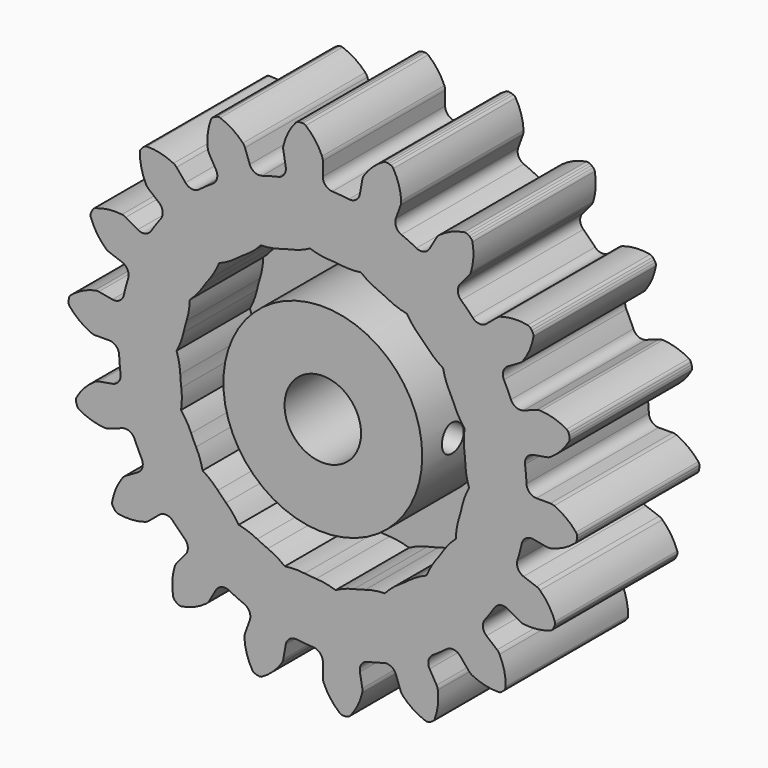
from build123d import *

# Parameters (mm, degrees)
F1_DEPTH = 12.7
F2_R     = 3.175
F3_DEPTH = 12.701
F4_T     = -5.08
F6_R     = 1.1303
F7_DEPTH = 8.255


with BuildPart() as f1:
    # F0 (on Front) → F1 (new body)
    with BuildSketch(Plane.XZ):
        with BuildLine():
            ThreePointArc((-3.0797196834, 17.4659582497), (-3.2056409493, 16.8649768064), (-3.7116884252, 16.517196973))
            ThreePointArc((-3.7116884252, 16.517196973), (-4.3815734964, 16.3522549058), (-5.0441820193, 16.1601563905))
            ThreePointArc((-5.0441820193, 16.1601563905), (-5.6563219057, 16.2083188233), (-6.0658636426, 16.6658233874))
            Line((-6.0658636426, 16.6658233874), (-6.4604760705, 17.7500121225))
            ThreePointArc((-6.4604760705, 17.7500121225), (-6.5329570164, 17.9000057853), (-6.6340767303, 18.0323930577))
            ThreePointArc((-6.6340767303, 18.0323930577), (-7.5028479606, 18.761320452), (-8.5193283576, 19.2641784831))
            ThreePointArc((-8.5193283576, 19.2641784831), (-8.6481237443, 19.2859924477), (-8.7767174091, 19.2630192006))
            Line((-8.7767174091, 19.2630192006), (-8.9526360841, 19.1989900392))
            Line((-8.9526360841, 19.1989900392), (-9.1147636121, 19.1053856674))
            ThreePointArc((-9.1147636121, 19.1053856674), (-9.2150205547, 19.0216441236), (-9.2810981671, 18.9089593872))
            ThreePointArc((-9.2810981671, 18.9089593872), (-9.5492675714, 17.8070593157), (-9.549312174, 16.672996445))
            ThreePointArc((-9.549312174, 16.672996445), (-9.5128961389, 16.5104373517), (-9.444584181, 16.3584996578))
            Line((-9.444584181, 16.3584996578), (-8.8676994044, 15.3593059147))
            ThreePointArc((-8.8676994044, 15.3593059147), (-8.7804789295, 14.7515004778), (-9.1370602999, 14.2516159044))
            ThreePointArc((-9.1370602999, 14.2516159044), (-9.7101328486, 13.867506873), (-10.2670796263, 13.4603678537))
            ThreePointArc((-10.2670796263, 13.4603678537), (-10.8587754826, 13.2962615647), (-11.4000946072, 13.586103704))
            Line((-11.4000946072, 13.586103704), (-12.1417233804, 14.4699424588))
            ThreePointArc((-12.1417233804, 14.4699424588), (-12.2611340445, 14.5861004534), (-12.4014346073, 14.6759188173))
            ThreePointArc((-12.4014346073, 14.6759188173), (-13.4671203735, 15.0637492501), (-14.5942870775, 15.1886244602))
            ThreePointArc((-14.5942870775, 15.1886244602), (-14.7227759673, 15.1650722651), (-14.8357571719, 15.0995028507))
            Line((-14.8357571719, 15.0995028507), (-14.9791673898, 14.9791673898))
            Line((-14.9791673898, 14.9791673898), (-15.0995028507, 14.8357571719))
            ThreePointArc((-15.0995028507, 14.8357571719), (-15.1650722651, 14.7227759673), (-15.1886244602, 14.5942870775))
            ThreePointArc((-15.1886244602, 14.5942870775), (-15.0637492501, 13.4671203735), (-14.6759188173, 12.4014346073))
            ThreePointArc((-14.6759188173, 12.4014346073), (-14.5861004534, 12.2611340445), (-14.4699424588, 12.1417233804))
            Line((-14.4699424588, 12.1417233804), (-13.586103704, 11.4000946072))
            ThreePointArc((-13.586103704, 11.4000946072), (-13.2962615647, 10.8587754826), (-13.4603678537, 10.2670796263))
            ThreePointArc((-13.4603678537, 10.2670796263), (-13.867506873, 9.7101328486), (-14.2516159044, 9.1370602999))
            ThreePointArc((-14.2516159044, 9.1370602999), (-14.7515004778, 8.7804789295), (-15.3593059147, 8.8676994044))
            Line((-15.3593059147, 8.8676994044), (-16.3584996578, 9.444584181))
            ThreePointArc((-16.3584996578, 9.444584181), (-16.5104373517, 9.5128961389), (-16.672996445, 9.549312174))
            ThreePointArc((-16.672996445, 9.549312174), (-17.8070593157, 9.5492675714), (-18.9089593872, 9.2810981671))
            ThreePointArc((-18.9089593872, 9.2810981671), (-19.0216441236, 9.2150205547), (-19.1053856674, 9.1147636121))
            Line((-19.1053856674, 9.1147636121), (-19.1989900392, 8.9526360841))
            Line((-19.1989900392, 8.9526360841), (-19.2630192006, 8.7767174091))
            ThreePointArc((-19.2630192006, 8.7767174091), (-19.2859924477, 8.6481237443), (-19.2641784831, 8.5193283576))
            ThreePointArc((-19.2641784831, 8.5193283576), (-18.761320452, 7.5028479606), (-18.0323930577, 6.6340767303))
            ThreePointArc((-18.0323930577, 6.6340767303), (-17.9000057853, 6.5329570164), (-17.7500121225, 6.4604760705))
            Line((-17.7500121225, 6.4604760705), (-16.6658233874, 6.0658636426))
            ThreePointArc((-16.6658233874, 6.0658636426), (-16.2083188233, 5.6563219057), (-16.1601563905, 5.0441820193))
            ThreePointArc((-16.1601563905, 5.0441820193), (-16.3522549058, 4.3815734964), (-16.517196973, 3.7116884252))
            ThreePointArc((-16.517196973, 3.7116884252), (-16.8649768064, 3.2056409493), (-17.4659582497, 3.0797196834))
            Line((-17.4659582497, 3.0797196834), (-18.6021994508, 3.2800696637))
            ThreePointArc((-18.6021994508, 3.2800696637), (-18.7683382462, 3.2922961546), (-18.9335488441, 3.2709175497))
            ThreePointArc((-18.9335488441, 3.2709175497), (-19.9992041003, 2.8830032914), (-20.9429321282, 2.2541344607))
            ThreePointArc((-20.9429321282, 2.2541344607), (-21.026221269, 2.1535013662), (-21.0706226859, 2.0306493622))
            Line((-21.0706226859, 2.0306493622), (-21.1031311431, 1.8462847399))
            Line((-21.1031311431, 1.8462847399), (-21.1031311431, 1.6590759961))
            ThreePointArc((-21.1031311431, 1.6590759961), (-21.0807373101, 1.5303801651), (-21.016188272, 1.4168129058))
            ThreePointArc((-21.016188272, 1.4168129058), (-20.1959995198, 0.6336213535), (-19.2138945656, 0.0665512911))
            ThreePointArc((-19.2138945656, 0.0665512911), (-19.0549062436, 0.016808956), (-18.889168362, 0))
            Line((-18.889168362, 0), (-17.7353988089, 0))
            ThreePointArc((-17.7353988089, 0), (-17.1654136224, -0.2283675714), (-16.9107915681, -0.7871183834))
            ThreePointArc((-16.9107915681, -0.7871183834), (-16.8646796635, -1.4754682845), (-16.7905603187, -2.1613678522))
            ThreePointArc((-16.7905603187, -2.1613678522), (-16.9442880317, -2.7558446396), (-17.4659582497, -3.0797196834))
            Line((-17.4659582497, -3.0797196834), (-18.6021994508, -3.2800696637))
            ThreePointArc((-18.6021994508, -3.2800696637), (-18.7625005571, -3.325403335), (-18.9104358233, -3.4019980047))
            ThreePointArc((-18.9104358233, -3.4019980047), (-19.7791497136, -4.1309937342), (-20.4508781698, -5.0447111292))
            ThreePointArc((-20.4508781698, -5.0447111292), (-20.4947258154, -5.1677618694), (-20.4944316392, -5.2983911699))
            Line((-20.4944316392, -5.2983911699), (-20.461923182, -5.4827557922))
            Line((-20.461923182, -5.4827557922), (-20.3978940206, -5.6586744673))
            ThreePointArc((-20.3978940206, -5.6586744673), (-20.3328341345, -5.7719498481), (-20.2333355894, -5.8565910923))
            ThreePointArc((-20.2333355894, -5.8565910923), (-19.1947429843, -6.3120293401), (-18.0779168219, -6.509001216))
            ThreePointArc((-18.0779168219, -6.509001216), (-17.9115037884, -6.5013665126), (-17.7500121225, -6.4604760705))
            Line((-17.7500121225, -6.4604760705), (-16.6658233874, -6.0658636426))
            ThreePointArc((-16.6658233874, -6.0658636426), (-16.0521062042, -6.0855125491), (-15.6217357059, -6.5234806925))
            ThreePointArc((-15.6217357059, -6.5234806925), (-15.3429751575, -7.1545468148), (-15.0387342878, -7.7737312682))
            ThreePointArc((-15.0387342878, -7.7737312682), (-14.9798680492, -8.384934693), (-15.3593059147, -8.8676994044))
            Line((-15.3593059147, -8.8676994044), (-16.3584996578, -9.444584181))
            ThreePointArc((-16.3584996578, -9.444584181), (-16.4936283957, -9.5420101047), (-16.6064451538, -9.6645823915))
            ThreePointArc((-16.6064451538, -9.6645823915), (-17.1734379622, -10.6467319484), (-17.4921464813, -11.7350901049))
            ThreePointArc((-17.4921464813, -11.7350901049), (-17.4912639585, -11.8657167555), (-17.4463096712, -11.988367531))
            Line((-17.4463096712, -11.988367531), (-17.3527052993, -12.1504950589))
            Line((-17.3527052993, -12.1504950589), (-17.2323698384, -12.2939052768))
            ThreePointArc((-17.2323698384, -12.2939052768), (-17.1324910815, -12.3780975247), (-17.0100440224, -12.4236037706))
            ThreePointArc((-17.0100440224, -12.4236037706), (-15.8783171607, -12.4963561397), (-14.761475508, -12.2994721138))
            ThreePointArc((-14.761475508, -12.2994721138), (-14.6077096307, -12.2353812298), (-14.4699424588, -12.1417233804))
            Line((-14.4699424588, -12.1417233804), (-13.586103704, -11.4000946072))
            ThreePointArc((-13.586103704, -11.4000946072), (-13.0026778739, -11.2086549007), (-12.4484679653, -11.4730149537))
            ThreePointArc((-12.4484679653, -11.4730149537), (-11.9706814094, -11.9706814094), (-11.4730149537, -12.4484679653))
            ThreePointArc((-11.4730149537, -12.4484679653), (-11.2086549007, -13.0026778739), (-11.4000946072, -13.586103704))
            Line((-11.4000946072, -13.586103704), (-12.1417233804, -14.4699424588))
            ThreePointArc((-12.1417233804, -14.4699424588), (-12.2353812298, -14.6077096307), (-12.2994721138, -14.761475508))
            ThreePointArc((-12.2994721138, -14.761475508), (-12.4963561397, -15.8783171607), (-12.4236037706, -17.0100440224))
            ThreePointArc((-12.4236037706, -17.0100440224), (-12.3780975247, -17.1324910815), (-12.2939052768, -17.2323698384))
            Line((-12.2939052768, -17.2323698384), (-12.1504950589, -17.3527052993))
            Line((-12.1504950589, -17.3527052993), (-11.988367531, -17.4463096712))
            ThreePointArc((-11.988367531, -17.4463096712), (-11.8657167555, -17.4912639585), (-11.7350901049, -17.4921464813))
            ThreePointArc((-11.7350901049, -17.4921464813), (-10.6467319484, -17.1734379622), (-9.6645823915, -16.6064451538))
            ThreePointArc((-9.6645823915, -16.6064451538), (-9.5420101047, -16.4936283957), (-9.444584181, -16.3584996578))
            Line((-9.444584181, -16.3584996578), (-8.8676994044, -15.3593059147))
            ThreePointArc((-8.8676994044, -15.3593059147), (-8.384934693, -14.9798680492), (-7.7737312682, -15.0387342878))
            ThreePointArc((-7.7737312682, -15.0387342878), (-7.1545468148, -15.3429751575), (-6.5234806925, -15.6217357059))
            ThreePointArc((-6.5234806925, -15.6217357059), (-6.0855125491, -16.0521062042), (-6.0658636426, -16.6658233874))
            Line((-6.0658636426, -16.6658233874), (-6.4604760705, -17.7500121225))
            ThreePointArc((-6.4604760705, -17.7500121225), (-6.5013665126, -17.9115037884), (-6.509001216, -18.0779168219))
            ThreePointArc((-6.509001216, -18.0779168219), (-6.3120293401, -19.1947429843), (-5.8565910923, -20.2333355894))
            ThreePointArc((-5.8565910923, -20.2333355894), (-5.7719498481, -20.3328341345), (-5.6586744673, -20.3978940206))
            Line((-5.6586744673, -20.3978940206), (-5.4827557922, -20.461923182))
            Line((-5.4827557922, -20.461923182), (-5.2983911699, -20.4944316392))
            ThreePointArc((-5.2983911699, -20.4944316392), (-5.1677618694, -20.4947258154), (-5.0447111292, -20.4508781698))
            ThreePointArc((-5.0447111292, -20.4508781698), (-4.1309937342, -19.7791497136), (-3.4019980047, -18.9104358233))
            ThreePointArc((-3.4019980047, -18.9104358233), (-3.325403335, -18.7625005571), (-3.2800696637, -18.6021994508))
            Line((-3.2800696637, -18.6021994508), (-3.0797196834, -17.4659582497))
            ThreePointArc((-3.0797196834, -17.4659582497), (-2.7558446396, -16.9442880317), (-2.1613678522, -16.7905603187))
            ThreePointArc((-2.1613678522, -16.7905603187), (-1.4754682845, -16.8646796635), (-0.7871183834, -16.9107915681))
            ThreePointArc((-0.7871183834, -16.9107915681), (-0.2283675714, -17.1654136224), (0, -17.7353988089))
            Line((0, -17.7353988089), (0, -18.889168362))
            ThreePointArc((0, -18.889168362), (0.016808956, -19.0549062436), (0.0665512911, -19.2138945656))
            ThreePointArc((0.0665512911, -19.2138945656), (0.6336213535, -20.1959995198), (1.4168129058, -21.016188272))
            ThreePointArc((1.4168129058, -21.016188272), (1.5303801651, -21.0807373101), (1.6590759961, -21.1031311431))
            Line((1.6590759961, -21.1031311431), (1.8462847399, -21.1031311431))
            Line((1.8462847399, -21.1031311431), (2.0306493622, -21.0706226859))
            ThreePointArc((2.0306493622, -21.0706226859), (2.1535013662, -21.026221269), (2.2541344607, -20.9429321282))
            ThreePointArc((2.2541344607, -20.9429321282), (2.8830032914, -19.9992041003), (3.2709175497, -18.9335488441))
            ThreePointArc((3.2709175497, -18.9335488441), (3.2922961546, -18.7683382462), (3.2800696637, -18.6021994508))
            Line((3.2800696637, -18.6021994508), (3.0797196834, -17.4659582497))
            ThreePointArc((3.0797196834, -17.4659582497), (3.2056409493, -16.8649768064), (3.7116884252, -16.517196973))
            ThreePointArc((3.7116884252, -16.517196973), (4.3815734964, -16.3522549058), (5.0441820193, -16.1601563905))
            ThreePointArc((5.0441820193, -16.1601563905), (5.6563219057, -16.2083188233), (6.0658636426, -16.6658233874))
            Line((6.0658636426, -16.6658233874), (6.4604760705, -17.7500121225))
            ThreePointArc((6.4604760705, -17.7500121225), (6.5329570164, -17.9000057853), (6.6340767303, -18.0323930577))
            ThreePointArc((6.6340767303, -18.0323930577), (7.5028479606, -18.761320452), (8.5193283576, -19.2641784831))
            ThreePointArc((8.5193283576, -19.2641784831), (8.6481237443, -19.2859924477), (8.7767174091, -19.2630192006))
            Line((8.7767174091, -19.2630192006), (8.9526360841, -19.1989900392))
            Line((8.9526360841, -19.1989900392), (9.1147636121, -19.1053856674))
            ThreePointArc((9.1147636121, -19.1053856674), (9.2150205547, -19.0216441236), (9.2810981671, -18.9089593872))
            ThreePointArc((9.2810981671, -18.9089593872), (9.5492675714, -17.8070593157), (9.549312174, -16.672996445))
            ThreePointArc((9.549312174, -16.672996445), (9.5128961389, -16.5104373517), (9.444584181, -16.3584996578))
            Line((9.444584181, -16.3584996578), (8.8676994044, -15.3593059147))
            ThreePointArc((8.8676994044, -15.3593059147), (8.7804789295, -14.7515004778), (9.1370602999, -14.2516159044))
            ThreePointArc((9.1370602999, -14.2516159044), (9.7101328486, -13.867506873), (10.2670796263, -13.4603678537))
            ThreePointArc((10.2670796263, -13.4603678537), (10.8587754826, -13.2962615647), (11.4000946072, -13.586103704))
            Line((11.4000946072, -13.586103704), (12.1417233804, -14.4699424588))
            ThreePointArc((12.1417233804, -14.4699424588), (12.2611340445, -14.5861004534), (12.4014346073, -14.6759188173))
            ThreePointArc((12.4014346073, -14.6759188173), (13.4671203735, -15.0637492501), (14.5942870775, -15.1886244602))
            ThreePointArc((14.5942870775, -15.1886244602), (14.7227759673, -15.1650722651), (14.8357571719, -15.0995028507))
            Line((14.8357571719, -15.0995028507), (14.9791673898, -14.9791673898))
            Line((14.9791673898, -14.9791673898), (15.0995028507, -14.8357571719))
            ThreePointArc((15.0995028507, -14.8357571719), (15.1650722651, -14.7227759673), (15.1886244602, -14.5942870775))
            ThreePointArc((15.1886244602, -14.5942870775), (15.0637492501, -13.4671203735), (14.6759188173, -12.4014346073))
            ThreePointArc((14.6759188173, -12.4014346073), (14.5861004534, -12.2611340445), (14.4699424588, -12.1417233804))
            Line((14.4699424588, -12.1417233804), (13.586103704, -11.4000946072))
            ThreePointArc((13.586103704, -11.4000946072), (13.2962615647, -10.8587754826), (13.4603678537, -10.2670796263))
            ThreePointArc((13.4603678537, -10.2670796263), (13.867506873, -9.7101328486), (14.2516159044, -9.1370602999))
            ThreePointArc((14.2516159044, -9.1370602999), (14.7515004778, -8.7804789295), (15.3593059147, -8.8676994044))
            Line((15.3593059147, -8.8676994044), (16.3584996578, -9.444584181))
            ThreePointArc((16.3584996578, -9.444584181), (16.5104373517, -9.5128961389), (16.672996445, -9.549312174))
            ThreePointArc((16.672996445, -9.549312174), (17.8070593157, -9.5492675714), (18.9089593872, -9.2810981671))
            ThreePointArc((18.9089593872, -9.2810981671), (19.0216441236, -9.2150205547), (19.1053856674, -9.1147636121))
            Line((19.1053856674, -9.1147636121), (19.1989900392, -8.9526360841))
            Line((19.1989900392, -8.9526360841), (19.2630192006, -8.7767174091))
            ThreePointArc((19.2630192006, -8.7767174091), (19.2859924477, -8.6481237443), (19.2641784831, -8.5193283576))
            ThreePointArc((19.2641784831, -8.5193283576), (18.761320452, -7.5028479606), (18.0323930577, -6.6340767303))
            ThreePointArc((18.0323930577, -6.6340767303), (17.9000057853, -6.5329570164), (17.7500121225, -6.4604760705))
            Line((17.7500121225, -6.4604760705), (16.6658233874, -6.0658636426))
            ThreePointArc((16.6658233874, -6.0658636426), (16.2083188233, -5.6563219057), (16.1601563905, -5.0441820193))
            ThreePointArc((16.1601563905, -5.0441820193), (16.3522549058, -4.3815734964), (16.517196973, -3.7116884252))
            ThreePointArc((16.517196973, -3.7116884252), (16.8649768064, -3.2056409493), (17.4659582497, -3.0797196834))
            Line((17.4659582497, -3.0797196834), (18.6021994508, -3.2800696637))
            ThreePointArc((18.6021994508, -3.2800696637), (18.7683382462, -3.2922961546), (18.9335488441, -3.2709175497))
            ThreePointArc((18.9335488441, -3.2709175497), (19.9992041003, -2.8830032914), (20.9429321282, -2.2541344607))
            ThreePointArc((20.9429321282, -2.2541344607), (21.026221269, -2.1535013662), (21.0706226859, -2.0306493622))
            Line((21.0706226859, -2.0306493622), (21.1031311431, -1.8462847399))
            Line((21.1031311431, -1.8462847399), (21.1031311431, -1.6590759961))
            ThreePointArc((21.1031311431, -1.6590759961), (21.0807373101, -1.5303801651), (21.016188272, -1.4168129058))
            ThreePointArc((21.016188272, -1.4168129058), (20.1959995198, -0.6336213535), (19.2138945656, -0.0665512911))
            ThreePointArc((19.2138945656, -0.0665512911), (19.0549062436, -0.016808956), (18.889168362, 0))
            Line((18.889168362, 0), (17.7353988089, 0))
            ThreePointArc((17.7353988089, 0), (17.1654136224, 0.2283675714), (16.9107915681, 0.7871183834))
            ThreePointArc((16.9107915681, 0.7871183834), (16.8646796635, 1.4754682845), (16.7905603187, 2.1613678522))
            ThreePointArc((16.7905603187, 2.1613678522), (16.9442880317, 2.7558446396), (17.4659582497, 3.0797196834))
            Line((17.4659582497, 3.0797196834), (18.6021994508, 3.2800696637))
            ThreePointArc((18.6021994508, 3.2800696637), (18.7625005571, 3.325403335), (18.9104358233, 3.4019980047))
            ThreePointArc((18.9104358233, 3.4019980047), (19.7791497136, 4.1309937342), (20.4508781698, 5.0447111292))
            ThreePointArc((20.4508781698, 5.0447111292), (20.4947258154, 5.1677618694), (20.4944316392, 5.2983911699))
            Line((20.4944316392, 5.2983911699), (20.461923182, 5.4827557922))
            Line((20.461923182, 5.4827557922), (20.3978940206, 5.6586744673))
            ThreePointArc((20.3978940206, 5.6586744673), (20.3328341345, 5.7719498481), (20.2333355894, 5.8565910923))
            ThreePointArc((20.2333355894, 5.8565910923), (19.1947429843, 6.3120293401), (18.0779168219, 6.509001216))
            ThreePointArc((18.0779168219, 6.509001216), (17.9115037884, 6.5013665126), (17.7500121225, 6.4604760705))
            Line((17.7500121225, 6.4604760705), (16.6658233874, 6.0658636426))
            ThreePointArc((16.6658233874, 6.0658636426), (16.0521062042, 6.0855125491), (15.6217357059, 6.5234806925))
            ThreePointArc((15.6217357059, 6.5234806925), (15.3429751575, 7.1545468148), (15.0387342878, 7.7737312682))
            ThreePointArc((15.0387342878, 7.7737312682), (14.9798680492, 8.384934693), (15.3593059147, 8.8676994044))
            Line((15.3593059147, 8.8676994044), (16.3584996578, 9.444584181))
            ThreePointArc((16.3584996578, 9.444584181), (16.4936283957, 9.5420101047), (16.6064451538, 9.6645823915))
            ThreePointArc((16.6064451538, 9.6645823915), (17.1734379622, 10.6467319484), (17.4921464813, 11.7350901049))
            ThreePointArc((17.4921464813, 11.7350901049), (17.4912639585, 11.8657167555), (17.4463096712, 11.988367531))
            Line((17.4463096712, 11.988367531), (17.3527052993, 12.1504950589))
            Line((17.3527052993, 12.1504950589), (17.2323698384, 12.2939052768))
            ThreePointArc((17.2323698384, 12.2939052768), (17.1324910815, 12.3780975247), (17.0100440224, 12.4236037706))
            ThreePointArc((17.0100440224, 12.4236037706), (15.8783171607, 12.4963561397), (14.761475508, 12.2994721138))
            ThreePointArc((14.761475508, 12.2994721138), (14.6077096307, 12.2353812298), (14.4699424588, 12.1417233804))
            Line((14.4699424588, 12.1417233804), (13.586103704, 11.4000946072))
            ThreePointArc((13.586103704, 11.4000946072), (13.0026778739, 11.2086549007), (12.4484679653, 11.4730149537))
            ThreePointArc((12.4484679653, 11.4730149537), (11.9706814094, 11.9706814094), (11.4730149537, 12.4484679653))
            ThreePointArc((11.4730149537, 12.4484679653), (11.2086549007, 13.0026778739), (11.4000946072, 13.586103704))
            Line((11.4000946072, 13.586103704), (12.1417233804, 14.4699424588))
            ThreePointArc((12.1417233804, 14.4699424588), (12.2353812298, 14.6077096307), (12.2994721138, 14.761475508))
            ThreePointArc((12.2994721138, 14.761475508), (12.4963561397, 15.8783171607), (12.4236037706, 17.0100440224))
            ThreePointArc((12.4236037706, 17.0100440224), (12.3780975247, 17.1324910815), (12.2939052768, 17.2323698384))
            Line((12.2939052768, 17.2323698384), (12.1504950589, 17.3527052993))
            Line((12.1504950589, 17.3527052993), (11.988367531, 17.4463096712))
            ThreePointArc((11.988367531, 17.4463096712), (11.8657167555, 17.4912639585), (11.7350901049, 17.4921464813))
            ThreePointArc((11.7350901049, 17.4921464813), (10.6467319484, 17.1734379622), (9.6645823915, 16.6064451538))
            ThreePointArc((9.6645823915, 16.6064451538), (9.5420101047, 16.4936283957), (9.444584181, 16.3584996578))
            Line((9.444584181, 16.3584996578), (8.8676994044, 15.3593059147))
            ThreePointArc((8.8676994044, 15.3593059147), (8.384934693, 14.9798680492), (7.7737312682, 15.0387342878))
            ThreePointArc((7.7737312682, 15.0387342878), (7.1545468148, 15.3429751575), (6.5234806925, 15.6217357059))
            ThreePointArc((6.5234806925, 15.6217357059), (6.0855125491, 16.0521062042), (6.0658636426, 16.6658233874))
            Line((6.0658636426, 16.6658233874), (6.4604760705, 17.7500121225))
            ThreePointArc((6.4604760705, 17.7500121225), (6.5013665126, 17.9115037884), (6.509001216, 18.0779168219))
            ThreePointArc((6.509001216, 18.0779168219), (6.3120293401, 19.1947429843), (5.8565910923, 20.2333355894))
            ThreePointArc((5.8565910923, 20.2333355894), (5.7719498481, 20.3328341345), (5.6586744673, 20.3978940206))
            Line((5.6586744673, 20.3978940206), (5.4827557922, 20.461923182))
            Line((5.4827557922, 20.461923182), (5.2983911699, 20.4944316392))
            ThreePointArc((5.2983911699, 20.4944316392), (5.1677618694, 20.4947258154), (5.0447111292, 20.4508781698))
            ThreePointArc((5.0447111292, 20.4508781698), (4.1309937342, 19.7791497136), (3.4019980047, 18.9104358233))
            ThreePointArc((3.4019980047, 18.9104358233), (3.325403335, 18.7625005571), (3.2800696637, 18.6021994508))
            Line((3.2800696637, 18.6021994508), (3.0797196834, 17.4659582497))
            ThreePointArc((3.0797196834, 17.4659582497), (2.7558446396, 16.9442880317), (2.1613678522, 16.7905603187))
            ThreePointArc((2.1613678522, 16.7905603187), (1.4754682845, 16.8646796635), (0.7871183834, 16.9107915681))
            ThreePointArc((0.7871183834, 16.9107915681), (0.2283675714, 17.1654136224), (0, 17.7353988089))
            Line((0, 17.7353988089), (0, 18.889168362))
            ThreePointArc((0, 18.889168362), (-0.016808956, 19.0549062436), (-0.0665512911, 19.2138945656))
            ThreePointArc((-0.0665512911, 19.2138945656), (-0.6336213535, 20.1959995198), (-1.4168129058, 21.016188272))
            ThreePointArc((-1.4168129058, 21.016188272), (-1.5303801651, 21.0807373101), (-1.6590759961, 21.1031311431))
            Line((-1.6590759961, 21.1031311431), (-1.8462847399, 21.1031311431))
            Line((-1.8462847399, 21.1031311431), (-2.0306493622, 21.0706226859))
            ThreePointArc((-2.0306493622, 21.0706226859), (-2.1535013662, 21.026221269), (-2.2541344607, 20.9429321282))
            ThreePointArc((-2.2541344607, 20.9429321282), (-2.8830032914, 19.9992041003), (-3.2709175497, 18.9335488441))
            ThreePointArc((-3.2709175497, 18.9335488441), (-3.2922961546, 18.7683382462), (-3.2800696637, 18.6021994508))
            Line((-3.2800696637, 18.6021994508), (-3.0797196834, 17.4659582497))
        make_face()
    extrude(amount=F1_DEPTH)

    # F2 (on face) → F3 (cut, through all)
    with BuildSketch(Plane.XZ.offset(12.7)):
        Circle(F2_R)
    extrude(amount=-F3_DEPTH, mode=Mode.SUBTRACT)

    # F4
    f4_openings = [f1.faces().sort_by_distance(p)[0] for p in [
        (5.286925, -12.7, 19.890359),
    ]]
    offset(amount=F4_T, openings=f4_openings)

    # F6 (on offset) → F7 (cut)
    with BuildSketch(Plane.YZ.offset(8.255)):
        with Locations((-9.525, 0)):
            Circle(F6_R)
    extrude(amount=-F7_DEPTH, mode=Mode.SUBTRACT)


solid = f1.part
